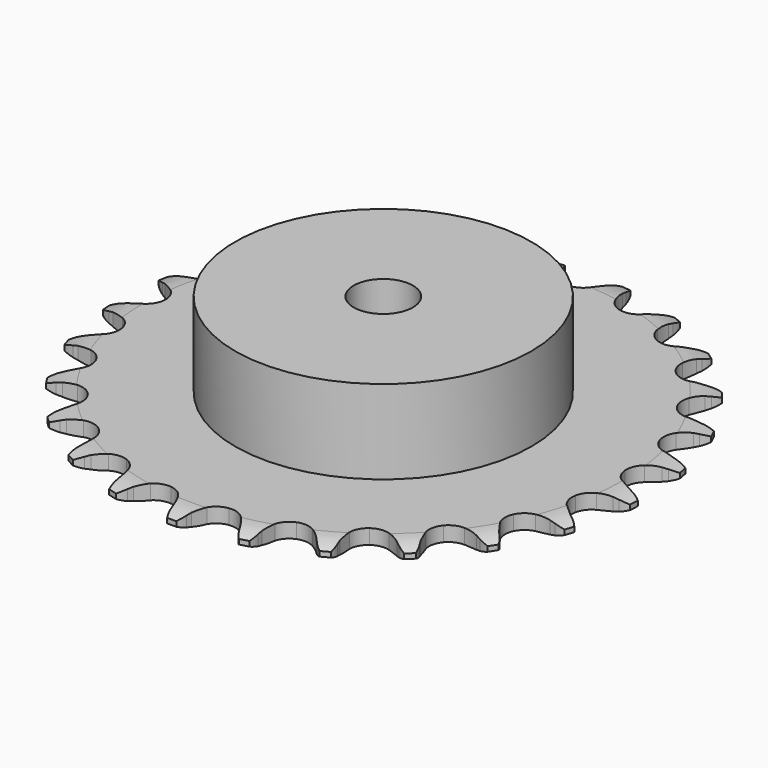
from build123d import *

# Parameters (mm, degrees)
PAD_DEPTH         = 3
SKETCH001_R       = 30
PAD001_DEPTH      = 20
SKETCH002_R       = 6
POCKET_DEPTH      = 0.001
POCKET_DEPTH_BACK = 20.001


with BuildPart() as part:
    # Sprocket → Pad (new body)
    with BuildSketch(Plane.XY):
        with BuildLine():
            ThreePointArc((-6.859974, 54.302288), (-5.687726, 53.105598), (-4.869717, 51.643718))
            Line((-4.869717, 51.643718), (-4.49296, 50.694075))
            ThreePointArc((-4.49296, 50.694075), (-3.891744, 49.438117), (-3.124016, 48.276444))
            ThreePointArc((-3.124016, 48.276444), (-1.742366, 47.139523), (0, 46.732459))
            ThreePointArc((0, 46.732459), (1.742366, 47.139523), (3.124016, 48.276444))
            ThreePointArc((3.124016, 48.276444), (3.891744, 49.438117), (4.49296, 50.694075))
            Line((4.49296, 50.694075), (4.869717, 51.643718))
            ThreePointArc((4.869717, 51.643718), (5.687726, 53.105598), (6.859974, 54.302288))
            ThreePointArc((6.859974, 54.302288), (7.697789, 52.851668), (8.126544, 51.232285))
            Line((8.126544, 51.232285), (8.255298, 50.218781))
            ThreePointArc((8.255298, 50.218781), (8.525281, 48.852765), (8.979994, 47.536661))
            ThreePointArc((8.979994, 47.536661), (10.035496, 46.091858), (11.62189, 45.264273))
            ThreePointArc((11.62189, 45.264273), (13.41075, 45.22524), (15.031732, 45.982839))
            Line((15.031732, 45.982839), (16.958909, 47.984074))
            ThreePointArc((16.958909, 47.984074), (17.249034, 48.404711), (17.559996, 48.810186))
            ThreePointArc((17.559996, 48.810186), (18.715861, 50.022708), (20.148885, 50.890275))
            ThreePointArc((20.148885, 50.890275), (20.599624, 49.276873), (20.612185, 47.601739))
            Line((20.612185, 47.601739), (20.484846, 46.588057))
            ThreePointArc((20.484846, 46.588057), (20.406633, 45.197814), (20.519758, 43.809976))
            ThreePointArc((20.519758, 43.809976), (21.182791, 42.148071), (22.513534, 40.951966))
            ThreePointArc((22.513534, 40.951966), (24.236486, 40.469288), (25.99495, 40.799964))
            Line((25.99495, 40.799964), (28.359268, 42.259057))
            ThreePointArc((28.359268, 42.259057), (28.744886, 42.594327), (29.146916, 42.909731))
            ThreePointArc((29.146916, 42.909731), (30.568009, 43.796707), (32.171768, 44.28064))
            ThreePointArc((32.171768, 44.28064), (32.207109, 42.605831), (31.802686, 40.980201))
            Line((31.802686, 40.980201), (31.427256, 40.030033))
            ThreePointArc((31.427256, 40.030033), (31.00576, 38.702918), (30.77019, 37.330549))
            ThreePointArc((30.77019, 37.330549), (30.999094, 35.555966), (31.99057, 34.066496))
            ThreePointArc((31.99057, 34.066496), (33.539355, 33.170502), (35.324809, 33.053477))
            Line((35.324809, 33.053477), (37.977709, 33.878748))
            ThreePointArc((37.977709, 33.878748), (38.434591, 34.107586), (38.902429, 34.313099))
            ThreePointArc((38.902429, 34.313099), (40.499457, 34.818798), (42.17318, 34.888689))
            ThreePointArc((42.17318, 34.888689), (41.790903, 33.257708), (40.994908, 31.783726))
            Line((40.994908, 31.783726), (40.394975, 30.956775))
            ThreePointArc((40.394975, 30.956775), (39.656682, 29.776176), (39.087218, 28.505506))
            ThreePointArc((39.087218, 28.505506), (38.867609, 26.729748), (39.45752, 25.040504))
            ThreePointArc((39.45752, 25.040504), (40.734823, 23.787491), (42.435081, 23.230118))
            Line((42.435081, 23.230118), (45.209872, 23.369712))
            ThreePointArc((45.209872, 23.369712), (45.709309, 23.477739), (46.213558, 23.56045))
            ThreePointArc((46.213558, 23.56045), (47.886175, 23.653096), (49.524696, 23.304553))
            ThreePointArc((49.524696, 23.304553), (48.748821, 21.819881), (47.611269, 20.590163))
            Line((47.611269, 20.590163), (46.82453, 19.93839))
            ThreePointArc((46.82453, 19.93839), (45.815828, 18.978487), (44.948252, 17.889357))
            ThreePointArc((44.948252, 17.889357), (44.29393, 16.224003), (44.44521, 14.441124))
            ThreePointArc((44.44521, 14.441124), (45.370772, 12.909825), (46.879, 11.947126))
            Line((46.879, 11.947126), (49.601332, 11.392272))
            ThreePointArc((49.601332, 11.392272), (50.111944, 11.3727), (50.62092, 11.32741))
            ThreePointArc((50.62092, 11.32741), (52.264029, 11.001183), (53.764393, 10.256107))
            ThreePointArc((53.764393, 10.256107), (52.643671, 9.011031), (51.236039, 8.102844))
            Line((51.236039, 8.102844), (50.311927, 7.667202))
            ThreePointArc((50.311927, 7.667202), (49.096197, 6.98831), (47.985023, 6.149154))
            ThreePointArc((47.985023, 6.149154), (46.9371, 4.698843), (46.640243, 2.934355))
            ThreePointArc((46.640243, 2.934355), (47.155908, 1.220987), (48.37734, -0.086548))
            Line((48.37734, -0.086548), (50.876157, -1.300987))
            ThreePointArc((50.876157, -1.300987), (51.36586, -1.446928), (51.847583, -1.617372))
            ThreePointArc((51.847583, -1.617372), (53.357941, -2.341975), (54.625876, -3.436769))
            ThreePointArc((54.625876, -3.436769), (53.230725, -4.364016), (51.64146, -4.893607))
            Line((51.64146, -4.893607), (50.63804, -5.085745))
            ThreePointArc((50.63804, -5.085745), (49.291672, -5.440968), (48.006717, -5.977423))
            ThreePointArc((48.006717, -5.977423), (46.63104, -7.121562), (45.904699, -8.75679))
            ThreePointArc((45.904699, -8.75679), (45.978066, -10.54457), (46.835953, -12.114784))
            Line((46.835953, -12.114784), (48.954247, -13.9125))
            ThreePointArc((48.954247, -13.9125), (49.392271, -14.17564), (49.816471, -14.460529))
            ThreePointArc((49.816471, -14.460529), (51.099178, -15.537978), (52.055014, -16.913699))
            ThreePointArc((52.055014, -16.913699), (50.473098, -17.464855), (48.802058, -17.582574))
            Line((48.802058, -17.582574), (47.78238, -17.519136))
            ThreePointArc((47.78238, -17.519136), (46.38997, -17.528371), (45.011973, -17.728416))
            ThreePointArc((45.011973, -17.728416), (43.39498, -18.494493), (42.284793, -19.897713))
            ThreePointArc((42.284793, -19.897713), (41.911253, -21.647573), (42.351691, -23.381804))
            Line((42.351691, -23.381804), (43.956361, -25.649839))
            ThreePointArc((43.956361, -25.649839), (44.315183, -26.013645), (44.655208, -26.395077))
            ThreePointArc((44.655208, -26.395077), (45.629665, -27.757673), (46.213344, -29.32788))
            ThreePointArc((46.213344, -29.32788), (44.54406, -29.468314), (42.896243, -29.166763))
            Line((42.896243, -29.166763), (41.924377, -28.851734))
            ThreePointArc((41.924377, -28.851734), (40.573415, -28.514401), (39.188962, -28.365468))
            ThreePointArc((39.188962, -28.365468), (37.432253, -28.705347), (36.007978, -29.78839))
            ThreePointArc((36.007978, -29.78839), (35.211001, -31.390379), (35.206317, -33.179659))
            Line((35.206317, -33.179659), (36.196536, -35.775505))
            ThreePointArc((36.196536, -35.775505), (36.45361, -36.217116), (36.688094, -36.671126))
            ThreePointArc((36.688094, -36.671126), (37.293073, -38.233251), (37.46792, -39.899282))
            ThreePointArc((37.46792, -39.899282), (35.816154, -39.620169), (34.2951, -38.918297))
            Line((34.2951, -38.918297), (33.432111, -38.371473))
            ThreePointArc((33.432111, -38.371473), (32.207483, -37.708767), (30.903563, -37.220213))
            ThreePointArc((30.903563, -37.220213), (29.117521, -37.112538), (27.46865, -37.807353))
            ThreePointArc((27.46865, -37.807353), (26.298313, -39.160813), (25.8488, -40.892714))
            Line((25.8488, -40.892714), (26.162349, -43.653264))
            ThreePointArc((26.162349, -43.653264), (26.301522, -44.144933), (26.415732, -44.642993))
            ThreePointArc((26.415732, -44.642993), (26.61322, -46.306493), (26.368248, -47.963665))
            ThreePointArc((26.368248, -47.963665), (24.837789, -47.282544), (23.539069, -46.224452))
            Line((23.539069, -46.224452), (22.839182, -45.48019))
            ThreePointArc((22.839182, -45.48019), (21.817837, -44.533752), (20.67638, -43.736275))
            ThreePointArc((20.67638, -43.736275), (18.973227, -43.187813), (17.203366, -43.450741))
            ThreePointArc((17.203366, -43.450741), (15.733205, -44.470628), (14.867108, -46.036329))
            Line((14.867108, -46.036329), (14.484285, -48.788128))
            ThreePointArc((14.484285, -48.788128), (14.496813, -49.298961), (14.483572, -49.809777))
            ThreePointArc((14.483572, -49.809777), (14.26116, -51.470128), (13.611763, -53.014315))
            ThreePointArc((13.611763, -53.014315), (12.298773, -51.973983), (11.303992, -50.626154))
            Line((11.303992, -50.626154), (10.811184, -49.73122))
            ThreePointArc((10.811184, -49.73122), (10.057296, -48.560517), (9.150025, -47.504226))
            ThreePointArc((9.150025, -47.504226), (7.636776, -46.549438), (5.85713, -46.36396))
            ThreePointArc((5.85713, -46.36396), (4.179522, -46.986191), (2.951261, -48.287312))
            Line((2.951261, -48.287312), (1.896121, -50.857454))
            ThreePointArc((1.896121, -50.857454), (1.781216, -51.355355), (1.641356, -51.846829))
            ThreePointArc((1.641356, -51.846829), (1.013019, -53.399705), (0, -54.733881))
            ThreePointArc((0, -54.733881), (-1.013019, -53.399705), (-1.641356, -51.846829))
            Line((-1.641356, -51.846829), (-1.896121, -50.857454))
            ThreePointArc((-1.896121, -50.857454), (-2.335182, -49.536047), (-2.951261, -48.287312))
            ThreePointArc((-2.951261, -48.287312), (-4.179522, -46.986191), (-5.85713, -46.36396))
            ThreePointArc((-5.85713, -46.36396), (-7.636776, -46.549438), (-9.150025, -47.504226))
            Line((-9.150025, -47.504226), (-10.811184, -49.73122))
            ThreePointArc((-10.811184, -49.73122), (-11.046302, -50.184902), (-11.303992, -50.626154))
            ThreePointArc((-11.303992, -50.626154), (-12.298773, -51.973983), (-13.611763, -53.014315))
            ThreePointArc((-13.611763, -53.014315), (-14.26116, -51.470128), (-14.483572, -49.809777))
            Line((-14.483572, -49.809777), (-14.484285, -48.788128))
            ThreePointArc((-14.484285, -48.788128), (-14.580932, -47.399045), (-14.867108, -46.036329))
            ThreePointArc((-14.867108, -46.036329), (-15.733205, -44.470628), (-17.203366, -43.450741))
            ThreePointArc((-17.203366, -43.450741), (-18.973227, -43.187813), (-20.67638, -43.736275))
            Line((-20.67638, -43.736275), (-22.839182, -45.48019))
            ThreePointArc((-22.839182, -45.48019), (-23.179739, -45.861148), (-23.539069, -46.224452))
            ThreePointArc((-23.539069, -46.224452), (-24.837789, -47.282544), (-26.368248, -47.963665))
            ThreePointArc((-26.368248, -47.963665), (-26.61322, -46.306493), (-26.415732, -44.642993))
            Line((-26.415732, -44.642993), (-26.162349, -43.653264))
            ThreePointArc((-26.162349, -43.653264), (-25.910508, -42.283787), (-25.8488, -40.892714))
            ThreePointArc((-25.8488, -40.892714), (-26.298313, -39.160813), (-27.46865, -37.807353))
            ThreePointArc((-27.46865, -37.807353), (-29.117521, -37.112538), (-30.903563, -37.220213))
            Line((-30.903563, -37.220213), (-33.432111, -38.371473))
            ThreePointArc((-33.432111, -38.371473), (-33.856709, -38.655769), (-34.2951, -38.918297))
            ThreePointArc((-34.2951, -38.918297), (-35.816154, -39.620169), (-37.46792, -39.899282))
            ThreePointArc((-37.46792, -39.899282), (-37.293073, -38.233251), (-36.688094, -36.671126))
            Line((-36.688094, -36.671126), (-36.196536, -35.775505))
            ThreePointArc((-36.196536, -35.775505), (-35.612032, -34.511682), (-35.206317, -33.179659))
            ThreePointArc((-35.206317, -33.179659), (-35.211001, -31.390379), (-36.007978, -29.78839))
            ThreePointArc((-36.007978, -29.78839), (-37.432253, -28.705347), (-39.188962, -28.365468))
            Line((-39.188962, -28.365468), (-41.924377, -28.851734))
            ThreePointArc((-41.924377, -28.851734), (-42.406337, -29.021506), (-42.896243, -29.166763))
            ThreePointArc((-42.896243, -29.166763), (-44.54406, -29.468314), (-46.213344, -29.32788))
            ThreePointArc((-46.213344, -29.32788), (-45.629665, -27.757673), (-44.655208, -26.395077))
            Line((-44.655208, -26.395077), (-43.956361, -25.649839))
            ThreePointArc((-43.956361, -25.649839), (-43.075921, -24.571082), (-42.351691, -23.381804))
            ThreePointArc((-42.351691, -23.381804), (-41.911253, -21.647573), (-42.284793, -19.897713))
            ThreePointArc((-42.284793, -19.897713), (-43.39498, -18.494493), (-45.011973, -17.728416))
            Line((-45.011973, -17.728416), (-47.78238, -17.519136))
            ThreePointArc((-47.78238, -17.519136), (-48.291419, -17.563714), (-48.802058, -17.582574))
            ThreePointArc((-48.802058, -17.582574), (-50.473098, -17.464855), (-52.055014, -16.913699))
            ThreePointArc((-52.055014, -16.913699), (-51.099178, -15.537978), (-49.816471, -14.460529))
            Line((-49.816471, -14.460529), (-48.954247, -13.9125))
            ThreePointArc((-48.954247, -13.9125), (-47.833192, -13.08659), (-46.835953, -12.114784))
            ThreePointArc((-46.835953, -12.114784), (-45.978066, -10.54457), (-45.904699, -8.75679))
            ThreePointArc((-45.904699, -8.75679), (-46.63104, -7.121562), (-48.006717, -5.977423))
            Line((-48.006717, -5.977423), (-50.63804, -5.085745))
            ThreePointArc((-50.63804, -5.085745), (-51.142173, -5.002331), (-51.64146, -4.893607))
            ThreePointArc((-51.64146, -4.893607), (-53.230725, -4.364016), (-54.625876, -3.436769))
            ThreePointArc((-54.625876, -3.436769), (-53.357941, -2.341975), (-51.847583, -1.617372))
            Line((-51.847583, -1.617372), (-50.876157, -1.300987))
            ThreePointArc((-50.876157, -1.300987), (-49.584927, -0.77982), (-48.37734, -0.086548))
            ThreePointArc((-48.37734, -0.086548), (-47.155908, 1.220987), (-46.640243, 2.934355))
            ThreePointArc((-46.640243, 2.934355), (-46.9371, 4.698843), (-47.985023, 6.149154))
            Line((-47.985023, 6.149154), (-50.311927, 7.667202))
            ThreePointArc((-50.311927, 7.667202), (-50.779477, 7.873368), (-51.236039, 8.102844))
            ThreePointArc((-51.236039, 8.102844), (-52.643671, 9.011031), (-53.764393, 10.256107))
            ThreePointArc((-53.764393, 10.256107), (-52.264029, 11.001183), (-50.62092, 11.32741))
            Line((-50.62092, 11.32741), (-49.601332, 11.392272))
            ThreePointArc((-49.601332, 11.392272), (-48.221058, 11.575949), (-46.879, 11.947126))
            ThreePointArc((-46.879, 11.947126), (-45.370772, 12.909825), (-44.44521, 14.441124))
            ThreePointArc((-44.44521, 14.441124), (-44.29393, 16.224003), (-44.948252, 17.889357))
            Line((-44.948252, 17.889357), (-46.82453, 19.93839))
            ThreePointArc((-46.82453, 19.93839), (-47.226119, 20.254354), (-47.611269, 20.590163))
            ThreePointArc((-47.611269, 20.590163), (-48.748821, 21.819881), (-49.524696, 23.304553))
            ThreePointArc((-49.524696, 23.304553), (-47.886175, 23.653096), (-46.213558, 23.56045))
            Line((-46.213558, 23.56045), (-45.209872, 23.369712))
            ThreePointArc((-45.209872, 23.369712), (-43.827283, 23.204359), (-42.435081, 23.230118))
            ThreePointArc((-42.435081, 23.230118), (-40.734823, 23.787491), (-39.45752, 25.040504))
            ThreePointArc((-39.45752, 25.040504), (-38.867609, 26.729748), (-39.087218, 28.505506))
            Line((-39.087218, 28.505506), (-40.394975, 30.956775))
            ThreePointArc((-40.394975, 30.956775), (-40.705371, 31.362685), (-40.994908, 31.783726))
            ThreePointArc((-40.994908, 31.783726), (-41.790903, 33.257708), (-42.17318, 34.888689))
            ThreePointArc((-42.17318, 34.888689), (-40.499457, 34.818798), (-38.902429, 34.313099))
            Line((-38.902429, 34.313099), (-37.977709, 33.878748))
            ThreePointArc((-37.977709, 33.878748), (-36.679679, 33.374754), (-35.324809, 33.053477))
            ThreePointArc((-35.324809, 33.053477), (-33.539355, 33.170502), (-31.99057, 34.066496))
            ThreePointArc((-31.99057, 34.066496), (-30.999094, 35.555966), (-30.77019, 37.330549))
            Line((-30.77019, 37.330549), (-31.427256, 40.030033))
            ThreePointArc((-31.427256, 40.030033), (-31.626954, 40.500382), (-31.802686, 40.980201))
            ThreePointArc((-31.802686, 40.980201), (-32.207109, 42.605831), (-32.171768, 44.28064))
            ThreePointArc((-32.171768, 44.28064), (-30.568009, 43.796707), (-29.146916, 42.909731))
            Line((-29.146916, 42.909731), (-28.359268, 42.259057))
            ThreePointArc((-28.359268, 42.259057), (-27.227356, 41.44809), (-25.99495, 40.799964))
            ThreePointArc((-25.99495, 40.799964), (-24.236486, 40.469288), (-22.513534, 40.951966))
            ThreePointArc((-22.513534, 40.951966), (-21.182791, 42.148071), (-20.519758, 43.809976))
            Line((-20.519758, 43.809976), (-20.484846, 46.588057))
            ThreePointArc((-20.484846, 46.588057), (-20.5613, 47.093292), (-20.612185, 47.601739))
            ThreePointArc((-20.612185, 47.601739), (-20.599624, 49.276873), (-20.148885, 50.890275))
            ThreePointArc((-20.148885, 50.890275), (-18.715861, 50.022708), (-17.559996, 48.810186))
            Line((-17.559996, 48.810186), (-16.958909, 47.984074))
            ThreePointArc((-16.958909, 47.984074), (-16.064238, 46.91709), (-15.031732, 45.982839))
            ThreePointArc((-15.031732, 45.982839), (-13.41075, 45.22524), (-11.62189, 45.264273))
            ThreePointArc((-11.62189, 45.264273), (-10.035496, 46.091858), (-8.979994, 47.536661))
            Line((-8.979994, 47.536661), (-8.255298, 50.218781))
            ThreePointArc((-8.255298, 50.218781), (-8.203703, 50.727157), (-8.126544, 51.232285))
            ThreePointArc((-8.126544, 51.232285), (-7.697789, 52.851668), (-6.859974, 54.302288))
        make_face()
    extrude(amount=PAD_DEPTH)

    # Sketch → Groove (revolve, cut)
    with BuildSketch(Plane.XZ):
        with BuildLine():
            Line((48.55, 0), (53.55, 0))
            Line((58.55, 0), (53.55, 0))
            Line((58.55, 3), (58.55, 0))
            Line((53.55, 3), (58.55, 3))
            Line((48.55, 3), (53.55, 3))
            ThreePointArc((53.55, 2), (51.09951, 2.747549), (48.55, 3))
            Line((53.55, 1), (53.55, 2))
            ThreePointArc((48.55, 0), (51.09951, 0.252451), (53.55, 1))
        make_face()
    revolve(axis=Axis((0, 0, 0), (0, 0, 1)), mode=Mode.SUBTRACT)

    # Sketch001 → Pad001 (join)
    with BuildSketch(Plane.XY):
        Circle(SKETCH001_R)
    extrude(amount=PAD001_DEPTH)

    # Sketch002 → Pocket (cut, two sides)
    with BuildSketch(Plane.XY) as pocket_sk:
        Circle(SKETCH002_R)
    extrude(amount=-POCKET_DEPTH, mode=Mode.SUBTRACT)
    extrude(pocket_sk.sketch, amount=POCKET_DEPTH_BACK, mode=Mode.SUBTRACT)


solid = part.part
